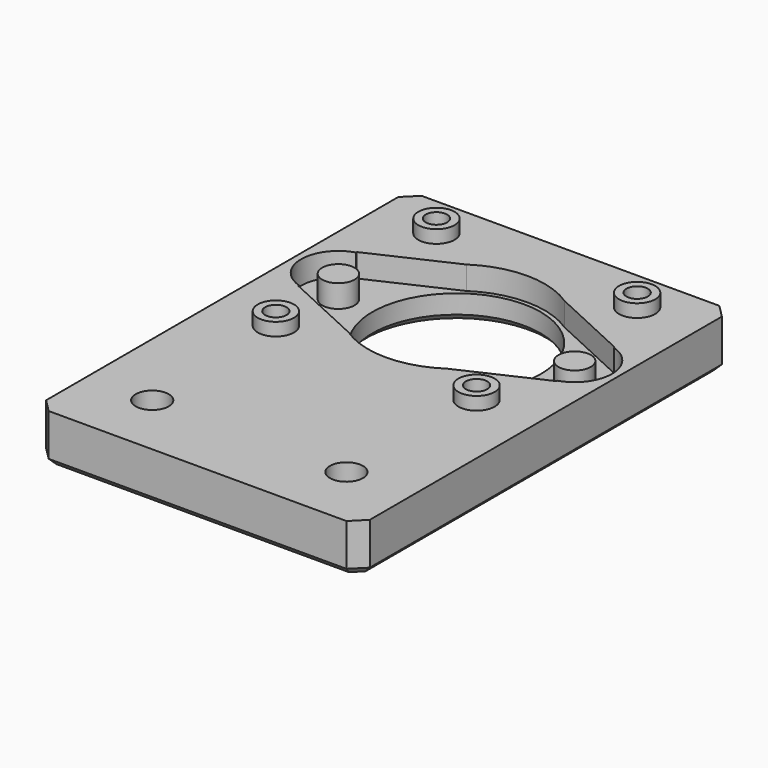
from build123d import *

# Parameters (mm, degrees)
CYLINDER023_R     = 6
CYLINDER023_DEPTH = 3
CYLINDER022_R     = 2.55
CYLINDER022_DEPTH = 10
CYLINDER021_R     = 2.55
CYLINDER021_DEPTH = 10
CYLINDER010_R     = 1.65
CYLINDER010_DEPTH = 10
CYLINDER011_R     = 1.65
CYLINDER011_DEPTH = 10
CYLINDER009_R     = 1.65
CYLINDER009_DEPTH = 10
CYLINDER012_R     = 1.65
CYLINDER012_DEPTH = 10
CYLINDER019_R     = 3
CYLINDER019_DEPTH = 3
CYLINDER018_R     = 3
CYLINDER018_DEPTH = 3
CYLINDER017_R     = 3
CYLINDER017_DEPTH = 3
CYLINDER020_R     = 3
CYLINDER020_DEPTH = 3
CYLINDER024_R     = 6
CYLINDER024_DEPTH = 3
CYLINDER007_R     = 2.8
CYLINDER007_DEPTH = 9.5
CYLINDER008_R     = 2.8
CYLINDER008_DEPTH = 9.5
CYLINDER006_R     = 2.8
CYLINDER006_DEPTH = 9.5
CYLINDER005_R     = 2.8
CYLINDER005_DEPTH = 9.5
CYLINDER004_R     = 2.5
CYLINDER004_DEPTH = 7.4
CYLINDER003_R     = 2.5
CYLINDER003_DEPTH = 7.4
CYLINDER013_R     = 13
CYLINDER013_DEPTH = 8
CYLINDER016_R     = 17
CYLINDER016_DEPTH = 8
BOX002_W          = 15
BOX002_H          = 28
BOX002_DEPTH      = 10
BOX003_W          = 15
BOX003_H          = 28
BOX003_DEPTH      = 10
BOX001_W          = 48
BOX001_H          = 11.3
BOX001_DEPTH      = 6
CYLINDER_R        = 13.65
CYLINDER_DEPTH    = 10
CHAMFER_SIZE      = 7.5
CYLINDER002_R     = 5.75
CYLINDER002_DEPTH = 6
CYLINDER001_R     = 5.75
CYLINDER001_DEPTH = 6
BOX_W             = 50
BOX_H             = 72
BOX_DEPTH         = 7.5
CHAMFER001_SIZE   = 2
CHAMFER002_SIZE   = 1


with BuildPart() as cylinder023:
    # Cylinder023 → Cylinder023 (new body)
    with BuildSketch(Plane(origin=(15, -40, 0), x_dir=(1, 0, 0), z_dir=(0, 0, 1))):
        Circle(CYLINDER023_R)
    extrude(amount=CYLINDER023_DEPTH)


with BuildPart() as cylinder022:
    # Cylinder022 → Cylinder022 (new body)
    with BuildSketch(Plane(origin=(15, -40, 0), x_dir=(1, 0, 0), z_dir=(0, 0, 1))):
        Circle(CYLINDER022_R)
    extrude(amount=CYLINDER022_DEPTH)


with BuildPart() as cylinder021:
    # Cylinder021 → Cylinder021 (new body)
    with BuildSketch(Plane(origin=(-15, -40, 0), x_dir=(1, 0, 0), z_dir=(0, 0, 1))):
        Circle(CYLINDER021_R)
    extrude(amount=CYLINDER021_DEPTH)


with BuildPart() as cylinder010:
    # Cylinder010 → Cylinder010 (new body)
    with BuildSketch(Plane(origin=(-15.5, -15.5, 0), x_dir=(1, 0, 0), z_dir=(0, 0, 1))):
        Circle(CYLINDER010_R)
    extrude(amount=CYLINDER010_DEPTH)


with BuildPart() as cylinder011:
    # Cylinder011 → Cylinder011 (new body)
    with BuildSketch(Plane(origin=(15.5, 15.5, 0), x_dir=(1, 0, 0), z_dir=(0, 0, 1))):
        Circle(CYLINDER011_R)
    extrude(amount=CYLINDER011_DEPTH)


with BuildPart() as cylinder009:
    # Cylinder009 → Cylinder009 (new body)
    with BuildSketch(Plane(origin=(15.5, -15.5, 0), x_dir=(1, 0, 0), z_dir=(0, 0, 1))):
        Circle(CYLINDER009_R)
    extrude(amount=CYLINDER009_DEPTH)


with BuildPart() as fusion004:
    # Cylinder012 → Cylinder012 (new body)
    with BuildSketch(Plane(origin=(-15.5, 15.5, 0), x_dir=(1, 0, 0), z_dir=(0, 0, 1))):
        Circle(CYLINDER012_R)
    extrude(amount=CYLINDER012_DEPTH)

    # Fusion004: union Cylinder010, Cylinder011, Cylinder009
    add(cylinder010.part)
    add(cylinder011.part)
    add(cylinder009.part)


with BuildPart() as cylinder019:
    # Cylinder019 → Cylinder019 (new body)
    with BuildSketch(Plane(origin=(15.5, -15.5, 0), x_dir=(1, 0, 0), z_dir=(0, 0, 1))):
        Circle(CYLINDER019_R)
    extrude(amount=CYLINDER019_DEPTH)


with BuildPart() as cylinder018:
    # Cylinder018 → Cylinder018 (new body)
    with BuildSketch(Plane(origin=(15.5, 15.5, 0), x_dir=(1, 0, 0), z_dir=(0, 0, 1))):
        Circle(CYLINDER018_R)
    extrude(amount=CYLINDER018_DEPTH)


with BuildPart() as cylinder017:
    # Cylinder017 → Cylinder017 (new body)
    with BuildSketch(Plane(origin=(-15.5, 15.5, 0), x_dir=(1, 0, 0), z_dir=(0, 0, 1))):
        Circle(CYLINDER017_R)
    extrude(amount=CYLINDER017_DEPTH)


with BuildPart() as fusion005:
    # Cylinder020 → Cylinder020 (new body)
    with BuildSketch(Plane(origin=(-15.5, -15.5, 0), x_dir=(1, 0, 0), z_dir=(0, 0, 1))):
        Circle(CYLINDER020_R)
    extrude(amount=CYLINDER020_DEPTH)

    # Fusion005: union Cylinder019, Cylinder018, Cylinder017
    add(cylinder019.part)
    add(cylinder018.part)
    add(cylinder017.part)


with BuildPart() as fusion009:
    # Cylinder024 → Cylinder024 (new body)
    with BuildSketch(Plane(origin=(-15, -40, 0), x_dir=(1, 0, 0), z_dir=(0, 0, 1))):
        Circle(CYLINDER024_R)
    extrude(amount=CYLINDER024_DEPTH)

    # Fusion009: union Cylinder023, Cylinder022, Cylinder021, Fusion004, Fusion005
    add(cylinder023.part)
    add(cylinder022.part)
    add(cylinder021.part)
    add(fusion004.part)
    add(fusion005.part)


with BuildPart() as cylinder007:
    # Cylinder007 → Cylinder007 (new body)
    with BuildSketch(Plane(origin=(-15.5, -15.5, 0), x_dir=(1, 0, 0), z_dir=(0, 0, 1))):
        Circle(CYLINDER007_R)
    extrude(amount=CYLINDER007_DEPTH)


with BuildPart() as cylinder008:
    # Cylinder008 → Cylinder008 (new body)
    with BuildSketch(Plane(origin=(15.5, -15.5, 0), x_dir=(1, 0, 0), z_dir=(0, 0, 1))):
        Circle(CYLINDER008_R)
    extrude(amount=CYLINDER008_DEPTH)


with BuildPart() as cylinder006:
    # Cylinder006 → Cylinder006 (new body)
    with BuildSketch(Plane(origin=(15.5, 15.5, 0), x_dir=(1, 0, 0), z_dir=(0, 0, 1))):
        Circle(CYLINDER006_R)
    extrude(amount=CYLINDER006_DEPTH)


with BuildPart() as fusion002:
    # Cylinder005 → Cylinder005 (new body)
    with BuildSketch(Plane(origin=(-15.5, 15.5, 0), x_dir=(1, 0, 0), z_dir=(0, 0, 1))):
        Circle(CYLINDER005_R)
    extrude(amount=CYLINDER005_DEPTH)

    # Fusion002: union Cylinder007, Cylinder008, Cylinder006
    add(cylinder007.part)
    add(cylinder008.part)
    add(cylinder006.part)


with BuildPart() as cylinder004:
    # Cylinder004 → Cylinder004 (new body)
    with BuildSketch(Plane(origin=(-18.25, 0, 0), x_dir=(1, 0, 0), z_dir=(0, 0, 1))):
        Circle(CYLINDER004_R)
    extrude(amount=CYLINDER004_DEPTH)


with BuildPart() as fusion007:
    # Cylinder003 → Cylinder003 (new body)
    with BuildSketch(Plane(origin=(18.25, 0, 0), x_dir=(1, 0, 0), z_dir=(0, 0, 1))):
        Circle(CYLINDER003_R)
    extrude(amount=CYLINDER003_DEPTH)

    # Fusion007: union Cylinder004
    add(cylinder004.part)


with BuildPart() as cylinder013:
    # Cylinder013 → Cylinder013 (new body)
    with BuildSketch(Plane.XY.offset(-1)):
        Circle(CYLINDER013_R)
    extrude(amount=CYLINDER013_DEPTH)


with BuildPart() as cylinder016:
    # Cylinder016 → Cylinder016 (new body)
    with BuildSketch(Plane.XY.offset(-4)):
        Circle(CYLINDER016_R)
    extrude(amount=CYLINDER016_DEPTH)


with BuildPart() as cube002:
    # Box002 → Box002 (new body)
    with BuildSketch(Plane(origin=(19.93, -14, 0), x_dir=(1, 0, 0), z_dir=(0, 0, 1))):
        with Locations((7.5, 14)):
            Rectangle(BOX002_W, BOX002_H)
    extrude(amount=BOX002_DEPTH)


with BuildPart() as cube003:
    # Box003 → Box003 (new body)
    with BuildSketch(Plane(origin=(-34.93, -14, 0), x_dir=(1, 0, 0), z_dir=(0, 0, 1))):
        with Locations((7.5, 14)):
            Rectangle(BOX003_W, BOX003_H)
    extrude(amount=BOX003_DEPTH)


with BuildPart() as cube001:
    # Box001 → Box001 (new body)
    with BuildSketch(Plane(origin=(-24, -5.65, 4), x_dir=(1, 0, 0), z_dir=(0, 0, 1))):
        with Locations((24, 5.65)):
            Rectangle(BOX001_W, BOX001_H)
    extrude(amount=BOX001_DEPTH)


with BuildPart() as cut002:
    # Cylinder → Cylinder (new body)
    with BuildSketch(Plane.XY):
        Circle(CYLINDER_R)
    extrude(amount=CYLINDER_DEPTH)

    # Fusion: union Cube001
    add(cube001.part)

    # Chamfer
    chamfer_edges = [cut002.edges().sort_by_distance(p)[0] for p in [
        (12.42578, 5.65, 7),
        (12.42578, -5.65, 7),
        (-12.42578, 5.65, 7),
        (-12.42578, -5.65, 7),
    ]]
    chamfer(chamfer_edges, length=CHAMFER_SIZE)

    # Cut: cut Cube003
    add(cube003.part, mode=Mode.SUBTRACT)

    # Cut001: cut Cube002
    add(cube002.part, mode=Mode.SUBTRACT)

    # Cut002: cut Cylinder016
    add(cylinder016.part, mode=Mode.SUBTRACT)


with BuildPart() as cylinder002:
    # Cylinder002 → Cylinder002 (new body)
    with BuildSketch(Plane(origin=(18.25, 0, 4), x_dir=(1, 0, 0), z_dir=(0, 0, 1))):
        Circle(CYLINDER002_R)
    extrude(amount=CYLINDER002_DEPTH)


with BuildPart() as bearing_template:
    # Cylinder001 → Cylinder001 (new body)
    with BuildSketch(Plane(origin=(-18.25, 0, 4), x_dir=(1, 0, 0), z_dir=(0, 0, 1))):
        Circle(CYLINDER001_R)
    extrude(amount=CYLINDER001_DEPTH)

    # Fusion001: union Cut002, Cylinder002
    add(cut002.part)
    add(cylinder002.part)


with BuildPart() as bearing_template_1:
    # Fusion001 placement: moved
    add(bearing_template.part.moved(Location((0, 0, -0.1))))


with BuildPart() as chamfer002:
    # Box → Box (new body)
    with BuildSketch(Plane(origin=(-25, -50, 0), x_dir=(1, 0, 0), z_dir=(0, 0, 1))):
        with Locations((25, 36)):
            Rectangle(BOX_W, BOX_H)
    extrude(amount=BOX_DEPTH)

    # Chamfer001
    chamfer001_edges = [chamfer002.edges().sort_by_distance(p)[0] for p in [
        (-25, -50, 3.75),
        (-25, 22, 3.75),
        (25, -50, 3.75),
        (25, 22, 3.75),
    ]]
    chamfer(chamfer001_edges, length=CHAMFER001_SIZE)

    # Cut003: cut bearing-template
    add(bearing_template_1.part, mode=Mode.SUBTRACT)

    # Cut004: cut Cylinder013
    add(cylinder013.part, mode=Mode.SUBTRACT)

    # Fusion008: union Fusion002, Fusion007
    add(fusion002.part)
    add(fusion007.part)

    # Cut005: cut Fusion009
    add(fusion009.part, mode=Mode.SUBTRACT)

    # Chamfer002
    chamfer002_edges = [chamfer002.edges().sort_by_distance(p)[0] for p in [
        (-25, -14, 0),
        (-24, -49, 0),
        (-24, 21, 0),
        (0, -50, 0),
        (0, 22, 0),
        (24, -49, 0),
        (24, 21, 0),
        (25, -14, 0),
        (-13, 0, 0),
    ]]
    chamfer(chamfer002_edges, length=CHAMFER002_SIZE)


solid = chamfer002.part
